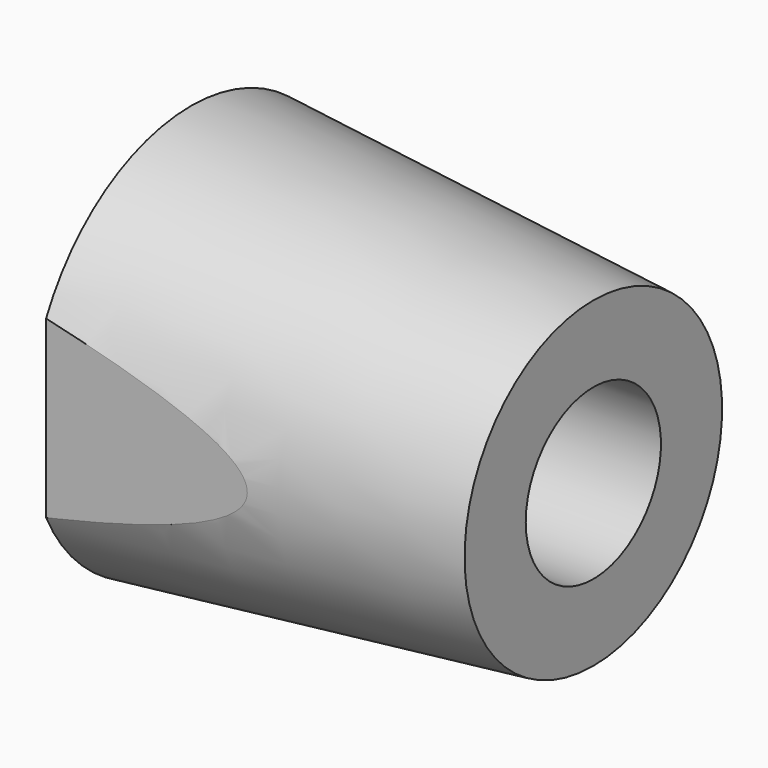
from build123d import *

# Parameters (mm, degrees)
F2_W     = 9
F2_H     = 15
F3_DEPTH = 10.001
F5_D     = 4.2


with BuildPart() as f1:
    # F0 (on Front) → F1 (revolve)
    with BuildSketch(Plane.XZ):
        Polygon((-10, 0), (0, 0), (0, 4), (-10, 5), align=None)
    revolve(axis=Axis((-5, 0, 0), (-1, 0, 0)))

    # F2 (on face) → F3 (intersect, through all)
    with BuildSketch(Plane.YZ):
        Rectangle(F2_W, F2_H)
    extrude(amount=-F3_DEPTH, mode=Mode.INTERSECT)

    # F5 (through all)
    with Locations(Plane.YZ):
        with Locations((0, 0)):
            Hole(F5_D / 2)


solid = f1.part
